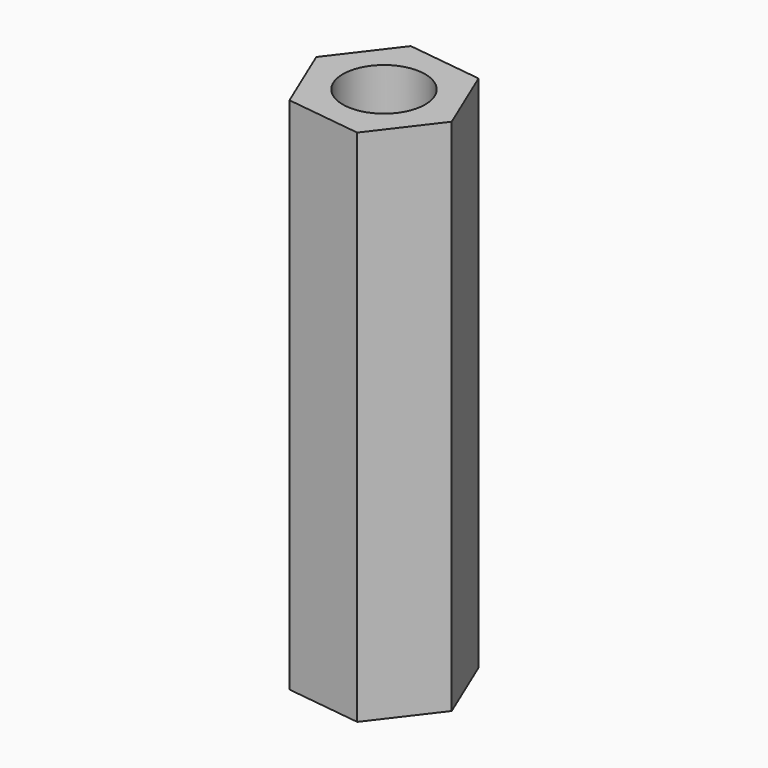
from build123d import *

# Parameters (mm, degrees)
F1_DEPTH = 25
F2_R     = 3.96875
F3_DEPTH = 50.001


with BuildPart() as f1:
    # F0 (on Top) → F1 (new body, symmetric)
    with BuildSketch(Plane.XY):
        Polygon((-2.829355, 6.764472), (-7.272882, 0.931943), (-4.443527, -5.832529), (2.829355, -6.764472), (7.272882, -0.931943), (4.443527, 5.832529), align=None)
    extrude(amount=F1_DEPTH, both=True)

    # F2 (on face) → F3 (cut, through all)
    with BuildSketch(Plane.XY.offset(25)):
        Circle(F2_R)
    extrude(amount=-F3_DEPTH, mode=Mode.SUBTRACT)


solid = f1.part
